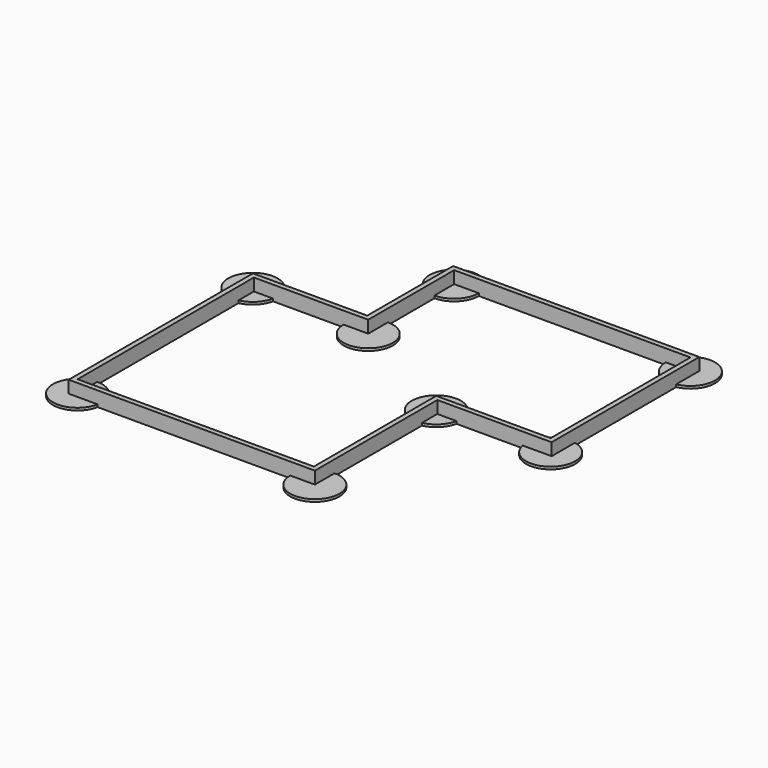
from build123d import *

# Parameters (mm, degrees)
F1_DEPTH = 1.2
F3_DEPTH = 0.2


with BuildPart() as f1:
    # F0 (on Top) → F1 (new body)
    with BuildSketch(Plane.XY):
        Polygon((-4.5237019658, 9.4786183909), (-13.8142090873, 9.4786183909), (-13.8142090873, -9.2292996123), (6.1857909127, -9.2292996123), (6.1857909127, 3.2034474425), (15.4762980342, 3.2034474425), (15.4762980342, 18.2034474425), (-4.5237019658, 18.2034474425), align=None)
        Polygon((-4.1237018444, 9.0786182694), (-4.1237018444, 17.8034473211), (15.0762979127, 17.8034473211), (15.0762979127, 3.6034475639), (5.7857907913, 3.6034475639), (5.7857907913, -8.8292994909), (-13.4142089658, -8.8292994909), (-13.4142089658, 9.0786182694), align=None, mode=Mode.SUBTRACT)
    extrude(amount=F1_DEPTH)

    # F2 (on face) → F3 (join)
    with BuildSketch(Plane(origin=(0, 0, 0), x_dir=(1, 0, 0), z_dir=(0, 0, -1))):
        with BuildLine():
            Line((-13.4142089658, 8.8292994909), (-11.4142089658, 8.8292994909))
            ThreePointArc((-11.4142089658, 8.8292994909), (-11.4243366661, 9.0303174766), (-11.4546171964, 9.2292996123))
            Line((-11.4546171964, 9.2292996123), (-13.8142090873, 9.2292996123))
            Line((-13.8142090873, 9.2292996123), (-13.8142090873, 6.8697077215))
            ThreePointArc((-13.8142090873, 6.8697077215), (-13.6152269515, 6.8394271911), (-13.4142089658, 6.8292994909))
            Line((-13.4142089658, 6.8292994909), (-13.4142089658, 8.8292994909))
        make_face()
        with BuildLine():
            ThreePointArc((-13.4142089658, 6.8292994909), (-11.9999954035, 7.4150859285), (-11.4142089658, 8.8292994909))
            Line((-11.4142089658, 8.8292994909), (-13.4142089658, 8.8292994909))
            Line((-13.4142089658, 8.8292994909), (-13.4142089658, 6.8292994909))
        make_face()
        with BuildLine():
            Line((-13.8142090873, 9.2292996123), (-11.4546171964, 9.2292996123))
            ThreePointArc((-11.4546171964, 9.2292996123), (-14.8284225282, 10.2435130533), (-13.8142090873, 6.8697077215))
            Line((-13.8142090873, 6.8697077215), (-13.8142090873, 9.2292996123))
        make_face()
        with BuildLine():
            Line((5.7857907913, 8.8292994909), (4.2261991433, 8.8292994909))
            ThreePointArc((4.2261991433, 8.8292994909), (4.7715773503, 7.81508605), (5.7857907913, 7.2697078429))
            Line((5.7857907913, 7.2697078429), (5.7857907913, 8.8292994909))
        make_face()
        with BuildLine():
            ThreePointArc((4.1857909127, 9.2292996123), (4.1959186129, 9.0282816267), (4.2261991433, 8.8292994909))
            Line((4.2261991433, 8.8292994909), (5.7857907913, 8.8292994909))
            Line((5.7857907913, 8.8292994909), (5.7857907913, 7.2697078429))
            ThreePointArc((5.7857907913, 7.2697078429), (5.984772927, 7.2394273126), (6.1857909127, 7.2292996123))
            Line((6.1857909127, 7.2292996123), (6.1857909127, 9.2292996123))
            Line((6.1857909127, 9.2292996123), (4.1857909127, 9.2292996123))
        make_face()
        with BuildLine():
            ThreePointArc((8.1857909127, 9.2292996123), (6.1857909127, 11.2292996123), (4.1857909127, 9.2292996123))
            Line((4.1857909127, 9.2292996123), (6.1857909127, 9.2292996123))
            Line((6.1857909127, 9.2292996123), (6.1857909127, 7.2292996123))
            ThreePointArc((6.1857909127, 7.2292996123), (7.6000044751, 7.81508605), (8.1857909127, 9.2292996123))
        make_face()
        with BuildLine():
            Line((-13.8142090873, -9.4786183909), (-13.8142090873, -7.4786183909))
            ThreePointArc((-13.8142090873, -7.4786183909), (-15.2284226497, -10.8928319532), (-11.8142090873, -9.4786183909))
            Line((-11.8142090873, -9.4786183909), (-13.8142090873, -9.4786183909))
        make_face()
        with BuildLine():
            Line((-13.4142089658, -9.0786182694), (-13.4142089658, -7.5190266214))
            ThreePointArc((-13.4142089658, -7.5190266214), (-13.6131911016, -7.4887460911), (-13.8142090873, -7.4786183909))
            Line((-13.8142090873, -7.4786183909), (-13.8142090873, -9.4786183909))
            Line((-13.8142090873, -9.4786183909), (-11.8142090873, -9.4786183909))
            ThreePointArc((-11.8142090873, -9.4786183909), (-11.8243367875, -9.2776004052), (-11.8546173178, -9.0786182694))
            Line((-11.8546173178, -9.0786182694), (-13.4142089658, -9.0786182694))
        make_face()
        with BuildLine():
            ThreePointArc((-11.8546173178, -9.0786182694), (-12.3999955249, -8.0644048285), (-13.4142089658, -7.5190266214))
            Line((-13.4142089658, -7.5190266214), (-13.4142089658, -9.0786182694))
            Line((-13.4142089658, -9.0786182694), (-11.8546173178, -9.0786182694))
        make_face()
        with BuildLine():
            ThreePointArc((-2.1237018444, -9.0786182694), (-4.1237018444, -7.0786182694), (-6.1237018444, -9.0786182694))
            Line((-6.1237018444, -9.0786182694), (-4.1237018444, -9.0786182694))
            Line((-4.1237018444, -9.0786182694), (-4.1237018444, -11.0786182694))
            ThreePointArc((-4.1237018444, -11.0786182694), (-2.709488282, -10.4928318318), (-2.1237018444, -9.0786182694))
        make_face()
        with BuildLine():
            Line((-4.1237018444, -9.0786182694), (-6.1237018444, -9.0786182694))
            ThreePointArc((-6.1237018444, -9.0786182694), (-6.1135741441, -9.2796362551), (-6.0832936138, -9.4786183909))
            Line((-6.0832936138, -9.4786183909), (-4.5237019658, -9.4786183909))
            Line((-4.5237019658, -9.4786183909), (-4.5237019658, -11.0382100389))
            ThreePointArc((-4.5237019658, -11.0382100389), (-4.32471983, -11.0684905692), (-4.1237018444, -11.0786182694))
            Line((-4.1237018444, -11.0786182694), (-4.1237018444, -9.0786182694))
        make_face()
        with BuildLine():
            Line((-4.5237019658, -9.4786183909), (-6.0832936138, -9.4786183909))
            ThreePointArc((-6.0832936138, -9.4786183909), (-5.5379154067, -10.4928318318), (-4.5237019658, -11.0382100389))
            Line((-4.5237019658, -11.0382100389), (-4.5237019658, -9.4786183909))
        make_face()
        with BuildLine():
            ThreePointArc((-2.1237018444, -17.8034473211), (-2.709488282, -16.3892337587), (-4.1237018444, -15.8034473211))
            Line((-4.1237018444, -15.8034473211), (-4.1237018444, -17.8034473211))
            Line((-4.1237018444, -17.8034473211), (-2.1237018444, -17.8034473211))
        make_face()
        with BuildLine():
            ThreePointArc((-4.1237018444, -15.8034473211), (-4.32471983, -15.8135750213), (-4.5237019658, -15.8438555516))
            Line((-4.5237019658, -15.8438555516), (-4.5237019658, -18.2034474425))
            Line((-4.5237019658, -18.2034474425), (-2.1641100749, -18.2034474425))
            ThreePointArc((-2.1641100749, -18.2034474425), (-2.1338295446, -18.0044653067), (-2.1237018444, -17.8034473211))
            Line((-2.1237018444, -17.8034473211), (-4.1237018444, -17.8034473211))
            Line((-4.1237018444, -17.8034473211), (-4.1237018444, -15.8034473211))
        make_face()
        with BuildLine():
            Line((-4.5237019658, -18.2034474425), (-4.5237019658, -15.8438555516))
            ThreePointArc((-4.5237019658, -15.8438555516), (-5.5379154067, -19.2176608834), (-2.1641100749, -18.2034474425))
            Line((-2.1641100749, -18.2034474425), (-4.5237019658, -18.2034474425))
        make_face()
        with BuildLine():
            Line((15.0762979127, -17.8034473211), (15.0762979127, -15.8034473211))
            ThreePointArc((15.0762979127, -15.8034473211), (13.6620843504, -16.3892337587), (13.0762979127, -17.8034473211))
            Line((13.0762979127, -17.8034473211), (15.0762979127, -17.8034473211))
        make_face()
        with BuildLine():
            ThreePointArc((15.4762980342, -15.8438555516), (15.2773158984, -15.8135750213), (15.0762979127, -15.8034473211))
            Line((15.0762979127, -15.8034473211), (15.0762979127, -17.8034473211))
            Line((15.0762979127, -17.8034473211), (13.0762979127, -17.8034473211))
            ThreePointArc((13.0762979127, -17.8034473211), (13.086425613, -18.0044653067), (13.1167061433, -18.2034474425))
            Line((13.1167061433, -18.2034474425), (15.4762980342, -18.2034474425))
            Line((15.4762980342, -18.2034474425), (15.4762980342, -15.8438555516))
        make_face()
        with BuildLine():
            ThreePointArc((17.0762979127, -17.8034473211), (16.6254912904, -16.538536305), (15.4762980342, -15.8438555516))
            Line((15.4762980342, -15.8438555516), (15.4762980342, -18.2034474425))
            Line((15.4762980342, -18.2034474425), (13.1167061433, -18.2034474425))
            ThreePointArc((13.1167061433, -18.2034474425), (15.2773158984, -19.7933196208), (17.0762979127, -17.8034473211))
        make_face()
        with BuildLine():
            ThreePointArc((17.0762979127, -3.6034475639), (15.2773158984, -1.6135752642), (13.1167061433, -3.2034474425))
            Line((13.1167061433, -3.2034474425), (15.4762980342, -3.2034474425))
            Line((15.4762980342, -3.2034474425), (15.4762980342, -5.5630393334))
            ThreePointArc((15.4762980342, -5.5630393334), (16.6254912904, -4.86835858), (17.0762979127, -3.6034475639))
        make_face()
        with BuildLine():
            ThreePointArc((13.1167061433, -3.2034474425), (13.086425613, -3.4024295783), (13.0762979127, -3.6034475639))
            Line((13.0762979127, -3.6034475639), (15.0762979127, -3.6034475639))
            Line((15.0762979127, -3.6034475639), (15.0762979127, -5.6034475639))
            ThreePointArc((15.0762979127, -5.6034475639), (15.2773158984, -5.5933198637), (15.4762980342, -5.5630393334))
            Line((15.4762980342, -5.5630393334), (15.4762980342, -3.2034474425))
            Line((15.4762980342, -3.2034474425), (13.1167061433, -3.2034474425))
        make_face()
        with BuildLine():
            Line((15.0762979127, -3.6034475639), (13.0762979127, -3.6034475639))
            ThreePointArc((13.0762979127, -3.6034475639), (13.6620843504, -5.0176611263), (15.0762979127, -5.6034475639))
            Line((15.0762979127, -5.6034475639), (15.0762979127, -3.6034475639))
        make_face()
        with BuildLine():
            Line((5.7857907913, -3.6034475639), (5.7857907913, -1.6034475639))
            ThreePointArc((5.7857907913, -1.6034475639), (4.3715772289, -5.0176611263), (7.7857907913, -3.6034475639))
            Line((7.7857907913, -3.6034475639), (5.7857907913, -3.6034475639))
        make_face()
        with BuildLine():
            ThreePointArc((6.1857909127, -1.6438557945), (5.9868087769, -1.6135752642), (5.7857907913, -1.6034475639))
            Line((5.7857907913, -1.6034475639), (5.7857907913, -3.6034475639))
            Line((5.7857907913, -3.6034475639), (7.7857907913, -3.6034475639))
            ThreePointArc((7.7857907913, -3.6034475639), (7.7756630911, -3.4024295783), (7.7453825607, -3.2034474425))
            Line((7.7453825607, -3.2034474425), (6.1857909127, -3.2034474425))
            Line((6.1857909127, -3.2034474425), (6.1857909127, -1.6438557945))
        make_face()
        with BuildLine():
            ThreePointArc((7.7453825607, -3.2034474425), (7.2000043536, -2.1892340016), (6.1857909127, -1.6438557945))
            Line((6.1857909127, -1.6438557945), (6.1857909127, -3.2034474425))
            Line((6.1857909127, -3.2034474425), (7.7453825607, -3.2034474425))
        make_face()
    extrude(amount=-F3_DEPTH)


solid = f1.part
